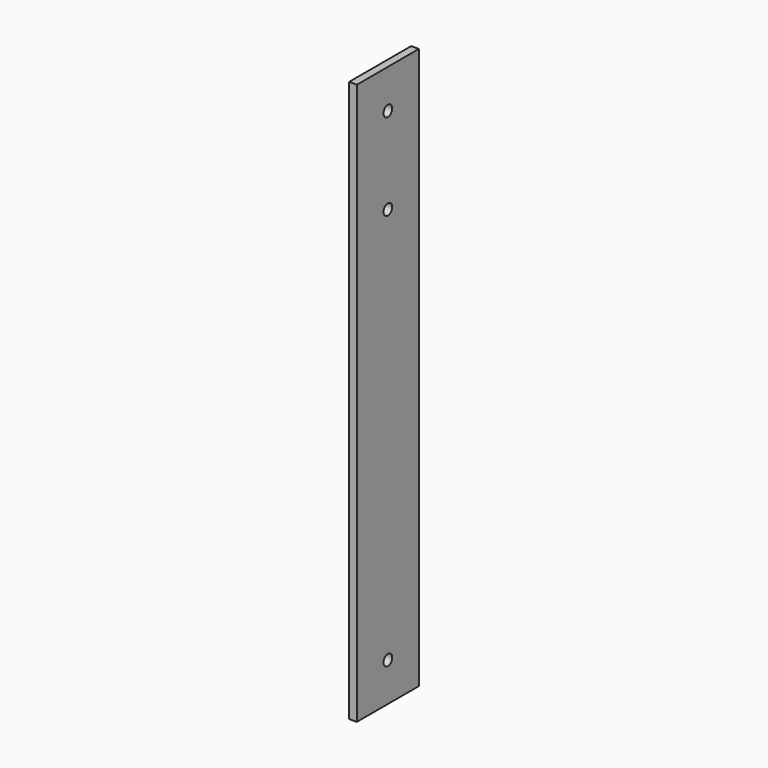
from build123d import *

# Parameters (mm, degrees)
F0_W     = 100
F0_H     = 724
F0_R     = 7
F1_DEPTH = 10


with BuildPart() as f1:
    # F0 (on Right) → F1 (new body)
    with BuildSketch(Plane.YZ):
        Rectangle(F0_W, F0_H)
        with Locations((0, -312)):
            Circle(F0_R, mode=Mode.SUBTRACT)
        with Locations((0, 200)):
            Circle(F0_R, mode=Mode.SUBTRACT)
        with Locations((0, 312)):
            Circle(F0_R, mode=Mode.SUBTRACT)
    extrude(amount=F1_DEPTH)


solid = f1.part
